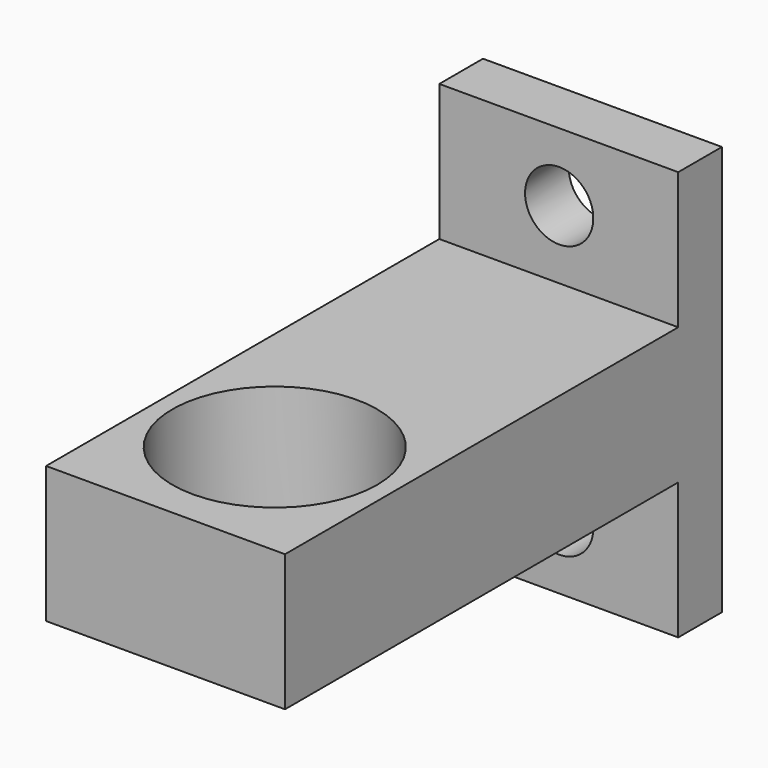
from build123d import *

# Parameters (mm, degrees)
F1_DEPTH = 50.8
F2_W     = 22.225
F2_H     = 12.7
F3_DEPTH = 45.72
F5_DEPTH = 25.401


with BuildPart() as f1:
    # F0 (on Front) → F1 (new body)
    with BuildSketch(Plane.XZ):
        with BuildLine():
            ThreePointArc((-7.8994, 31.75), (-11.0744, 34.925), (-14.2494, 31.75))
            ThreePointArc((-14.2494, 31.75), (-11.0744, 28.575), (-7.8994, 31.75))
        make_face()
        with BuildLine():
            ThreePointArc((-7.8994, 6.35), (-11.0744, 9.525), (-14.2494, 6.35))
            ThreePointArc((-14.2494, 6.35), (-11.0744, 3.175), (-7.8994, 6.35))
        make_face()
        Polygon((-22.225, 0), (0, 0), (0, 38.1), (-22.225, 38.1), (-22.225, 31.75), (-22.225, 25.4), (-22.225, 12.7), (-22.225, 6.35), align=None)
        with BuildLine():
            ThreePointArc((-7.8994, 6.35), (-11.0744, 3.175), (-14.2494, 6.35))
            ThreePointArc((-14.2494, 6.35), (-11.0744, 9.525), (-7.8994, 6.35))
        make_face(mode=Mode.SUBTRACT)
        with BuildLine():
            ThreePointArc((-7.8994, 31.75), (-11.0744, 28.575), (-14.2494, 31.75))
            ThreePointArc((-14.2494, 31.75), (-11.0744, 34.925), (-7.8994, 31.75))
        make_face(mode=Mode.SUBTRACT)
    extrude(amount=F1_DEPTH)

    # F2 (on face) → F3 (cut)
    with BuildSketch(Plane.XZ.offset(50.8)):
        with Locations((-11.1125, 31.75)):
            Rectangle(F2_W, F2_H)
        with Locations((-11.1125, 6.35)):
            Rectangle(F2_W, F2_H)
    extrude(amount=-F3_DEPTH, mode=Mode.SUBTRACT)

    # F4 (on face) → F5 (cut, through all)
    with BuildSketch(Plane.XY.offset(25.4)):
        with BuildLine():
            ThreePointArc((-11.1125, -47.625), (-4.377308, -44.835192), (-1.5875, -38.1))
            ThreePointArc((-1.5875, -38.1), (-17.847692, -31.364808), (-11.1125, -47.625))
        make_face()
    extrude(amount=-F5_DEPTH, mode=Mode.SUBTRACT)


solid = f1.part
